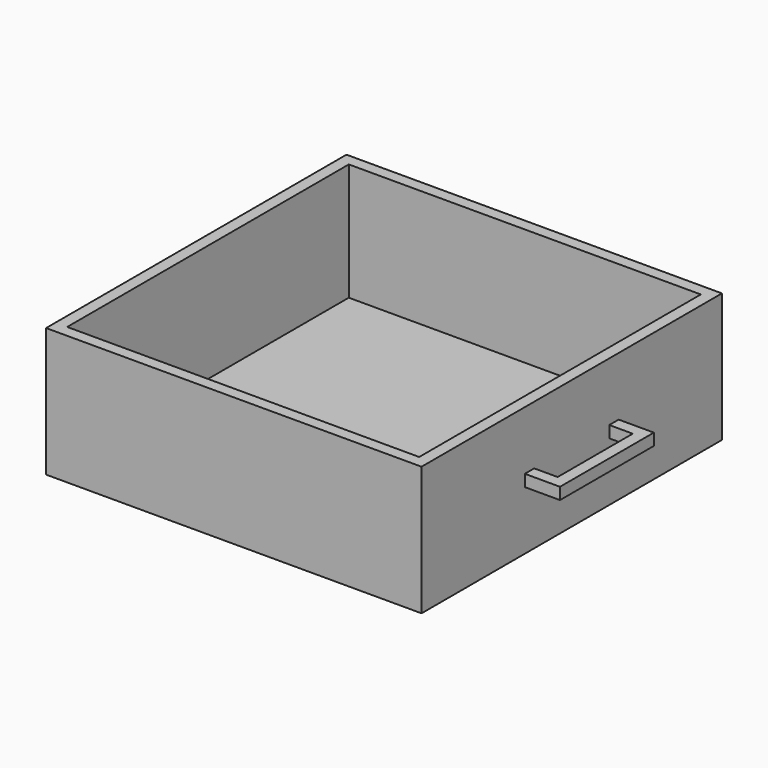
from build123d import *

# Parameters (mm, degrees)
F0_W     = 812.8
F0_H     = 812.8
F1_DEPTH = 279.4
F2_W     = 762
F2_H     = 711.2
F3_DEPTH = 254
F4_W     = 25.4
F4_H     = 25.4
F5_DEPTH = 50.8
F6_W     = 228.6
F6_H     = 25.4
F6_W_2   = 25.4
F7_DEPTH = 25.4
F8_W     = 762
F8_H     = 50.8
F9_DEPTH = 254


with BuildPart() as f1:
    # F0 (on Top) → F1 (new body)
    with BuildSketch(Plane.XY):
        with Locations((406.4, 406.4)):
            Rectangle(F0_W, F0_H)
    extrude(amount=F1_DEPTH)

    # F2 (on face) → F3 (cut)
    with BuildSketch(Plane.XY.offset(279.4)):
        with Locations((406.4, 381)):
            Rectangle(F2_W, F2_H)
    extrude(amount=-F3_DEPTH, mode=Mode.SUBTRACT)

    # F4 (on face) → F5 (join)
    with BuildSketch(Plane.YZ.offset(812.8)):
        with Locations((292.1, 139.7)):
            Rectangle(F4_W, F4_H)
        with Locations((520.7, 139.7)):
            Rectangle(F4_W, F4_H)
    extrude(amount=F5_DEPTH)

    # F6 (on face) → F7 (join)
    with BuildSketch(Plane.YZ.offset(863.6)):
        with Locations((419.1, 139.7)):
            Rectangle(F6_W, F6_H)
        with Locations((292.1, 139.7)):
            Rectangle(F6_W_2, F6_H)
    extrude(amount=F7_DEPTH)

    # F8 (on face) → F9 (cut)
    with BuildSketch(Plane.XY.offset(279.4)):
        with Locations((406.4, 762)):
            Rectangle(F8_W, F8_H)
    extrude(amount=-F9_DEPTH, mode=Mode.SUBTRACT)


solid = f1.part
